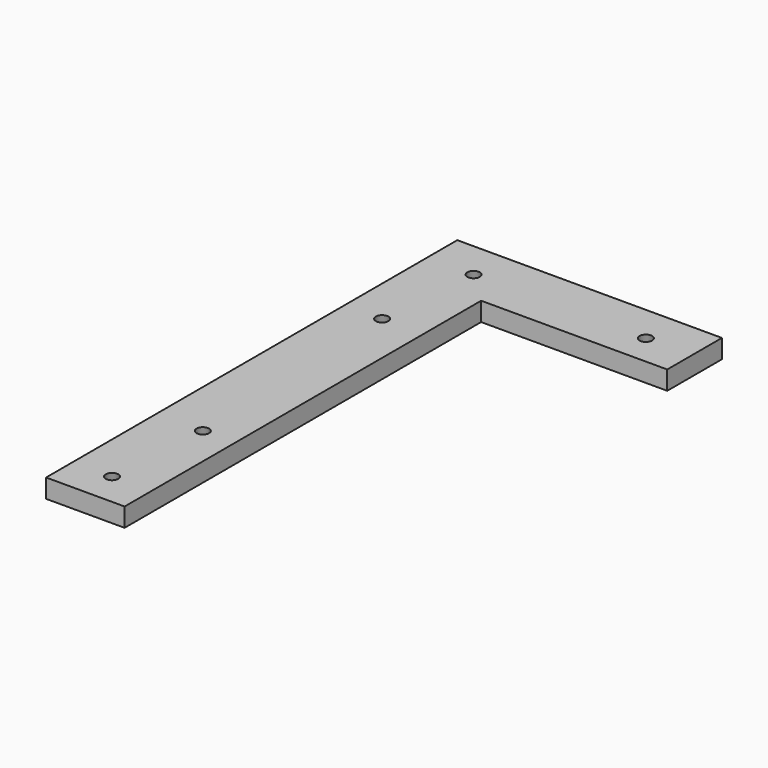
from build123d import *

# Parameters (mm, degrees)
F1_DEPTH = 3


with BuildPart() as f1:
    # F0 (on Top) → F1 (new body)
    with BuildSketch(Plane.XY):
        Polygon((-7.551009, -42.232115), (-1.289947, -42.232115), (4.979135, -42.232115), (4.979135, 28.882474), (34.680221, 28.882474), (34.680221, 39.788339), (4.979135, 39.788339), (-1.289947, 39.788339), (-7.551009, 39.788339), align=None)
        Polygon((-0.297832, -36.78021), (-0.289947, -36.905543), (-0.297832, -37.030876), (-0.321364, -37.154233), (-0.360171, -37.273667), (-0.41364, -37.387296), (-0.48093, -37.493328), (-0.560978, -37.59009), (-0.652523, -37.676056), (-0.75412, -37.749871), (-0.864168, -37.81037), (-0.98093, -37.856599), (-1.102566, -37.88783), (-1.227157, -37.90357), (-1.352738, -37.90357), (-1.477328, -37.88783), (-1.598964, -37.856599), (-1.715726, -37.81037), (-1.825774, -37.749871), (-1.927371, -37.676056), (-2.018916, -37.59009), (-2.098964, -37.493328), (-2.166254, -37.387296), (-2.219724, -37.273667), (-2.25853, -37.154233), (-2.282062, -37.030876), (-2.289947, -36.905543), (-2.282062, -36.78021), (-2.25853, -36.656853), (-2.219724, -36.537418), (-2.166254, -36.423789), (-2.098964, -36.317758), (-2.018916, -36.220996), (-1.927371, -36.13503), (-1.825774, -36.061215), (-1.715726, -36.000716), (-1.598964, -35.954486), (-1.477328, -35.923256), (-1.352738, -35.907516), (-1.227157, -35.907516), (-1.102566, -35.923256), (-0.98093, -35.954486), (-0.864168, -36.000716), (-0.75412, -36.061215), (-0.652523, -36.13503), (-0.560978, -36.220996), (-0.48093, -36.317758), (-0.41364, -36.423789), (-0.360171, -36.537418), (-0.321364, -36.656853), align=None, mode=Mode.SUBTRACT)
        Polygon((0.834477, -20.078598), (0.842362, -20.203931), (0.834477, -20.329264), (0.810945, -20.452621), (0.772138, -20.572056), (0.718669, -20.685685), (0.651379, -20.791716), (0.571331, -20.888478), (0.479786, -20.974444), (0.378189, -21.048259), (0.268141, -21.108758), (0.151379, -21.154988), (0.029743, -21.186218), (-0.094848, -21.201958), (-0.220429, -21.201958), (-0.345019, -21.186218), (-0.466655, -21.154988), (-0.583417, -21.108758), (-0.693465, -21.048259), (-0.795062, -20.974444), (-0.886607, -20.888478), (-0.966655, -20.791716), (-1.033945, -20.685685), (-1.087415, -20.572056), (-1.126221, -20.452621), (-1.149753, -20.329264), (-1.157638, -20.203931), (-1.149753, -20.078598), (-1.126221, -19.955241), (-1.087415, -19.835807), (-1.033945, -19.722178), (-0.966655, -19.616146), (-0.886607, -19.519384), (-0.795062, -19.433418), (-0.693465, -19.359603), (-0.583417, -19.299104), (-0.466655, -19.252875), (-0.345019, -19.221644), (-0.220429, -19.205904), (-0.094848, -19.205904), (0.029743, -19.221644), (0.151379, -19.252875), (0.268141, -19.299104), (0.378189, -19.359603), (0.479786, -19.433418), (0.571331, -19.519384), (0.651379, -19.616146), (0.718669, -19.722178), (0.772138, -19.835807), (0.810945, -19.955241), align=None, mode=Mode.SUBTRACT)
        Polygon((-0.603593, 17.484189), (-0.595708, 17.358856), (-0.603593, 17.233523), (-0.627125, 17.110166), (-0.665931, 16.990732), (-0.719401, 16.877103), (-0.786691, 16.771071), (-0.866739, 16.674309), (-0.958284, 16.588343), (-1.059881, 16.514528), (-1.169929, 16.454029), (-1.286691, 16.4078), (-1.408326, 16.376569), (-1.532917, 16.36083), (-1.658498, 16.36083), (-1.783089, 16.376569), (-1.904725, 16.4078), (-2.021487, 16.454029), (-2.131535, 16.514528), (-2.233132, 16.588343), (-2.324676, 16.674309), (-2.404725, 16.771071), (-2.472014, 16.877103), (-2.525484, 16.990732), (-2.564291, 17.110166), (-2.587823, 17.233523), (-2.595708, 17.358856), (-2.587823, 17.484189), (-2.564291, 17.607546), (-2.525484, 17.726981), (-2.472014, 17.84061), (-2.404725, 17.946642), (-2.324676, 18.043403), (-2.233132, 18.12937), (-2.131535, 18.203184), (-2.021487, 18.263683), (-1.904725, 18.309913), (-1.783089, 18.341144), (-1.658498, 18.356883), (-1.532917, 18.356883), (-1.408326, 18.341144), (-1.286691, 18.309913), (-1.169929, 18.263683), (-1.059881, 18.203184), (-0.958284, 18.12937), (-0.866739, 18.043403), (-0.786691, 17.946642), (-0.719401, 17.84061), (-0.665931, 17.726981), (-0.627125, 17.607546), align=None, mode=Mode.SUBTRACT)
        Polygon((0.834477, 33.921402), (0.842362, 33.796069), (0.834477, 33.670736), (0.810945, 33.547379), (0.772138, 33.427944), (0.718669, 33.314315), (0.651379, 33.208284), (0.571331, 33.111522), (0.479786, 33.025556), (0.378189, 32.951741), (0.268141, 32.891242), (0.151379, 32.845012), (0.029743, 32.813782), (-0.094848, 32.798042), (-0.220429, 32.798042), (-0.345019, 32.813782), (-0.466655, 32.845012), (-0.583417, 32.891242), (-0.693465, 32.951741), (-0.795062, 33.025556), (-0.886607, 33.111522), (-0.966655, 33.208284), (-1.033945, 33.314315), (-1.087415, 33.427944), (-1.126221, 33.547379), (-1.149753, 33.670736), (-1.157638, 33.796069), (-1.149753, 33.921402), (-1.126221, 34.044759), (-1.087415, 34.164193), (-1.033945, 34.277822), (-0.966655, 34.383854), (-0.886607, 34.480616), (-0.795062, 34.566582), (-0.693465, 34.640397), (-0.583417, 34.700896), (-0.466655, 34.747125), (-0.345019, 34.778356), (-0.220429, 34.794096), (-0.094848, 34.794096), (0.029743, 34.778356), (0.151379, 34.747125), (0.268141, 34.700896), (0.378189, 34.640397), (0.479786, 34.566582), (0.571331, 34.480616), (0.651379, 34.383854), (0.718669, 34.277822), (0.772138, 34.164193), (0.810945, 34.044759), align=None, mode=Mode.SUBTRACT)
        Polygon((28.334477, 33.921402), (28.342362, 33.796069), (28.334477, 33.670736), (28.310945, 33.547379), (28.272138, 33.427944), (28.218669, 33.314315), (28.151379, 33.208284), (28.071331, 33.111522), (27.979786, 33.025556), (27.878189, 32.951741), (27.768141, 32.891242), (27.651379, 32.845012), (27.529743, 32.813782), (27.405152, 32.798042), (27.279571, 32.798042), (27.154981, 32.813782), (27.033345, 32.845012), (26.916583, 32.891242), (26.806535, 32.951741), (26.704938, 33.025556), (26.613393, 33.111522), (26.533345, 33.208284), (26.466055, 33.314315), (26.412585, 33.427944), (26.373779, 33.547379), (26.350247, 33.670736), (26.342362, 33.796069), (26.350247, 33.921402), (26.373779, 34.044759), (26.412585, 34.164193), (26.466055, 34.277822), (26.533345, 34.383854), (26.613393, 34.480616), (26.704938, 34.566582), (26.806535, 34.640397), (26.916583, 34.700896), (27.033345, 34.747125), (27.154981, 34.778356), (27.279571, 34.794096), (27.405152, 34.794096), (27.529743, 34.778356), (27.651379, 34.747125), (27.768141, 34.700896), (27.878189, 34.640397), (27.979786, 34.566582), (28.071331, 34.480616), (28.151379, 34.383854), (28.218669, 34.277822), (28.272138, 34.164193), (28.310945, 34.044759), align=None, mode=Mode.SUBTRACT)
    extrude(amount=F1_DEPTH)


solid = f1.part
